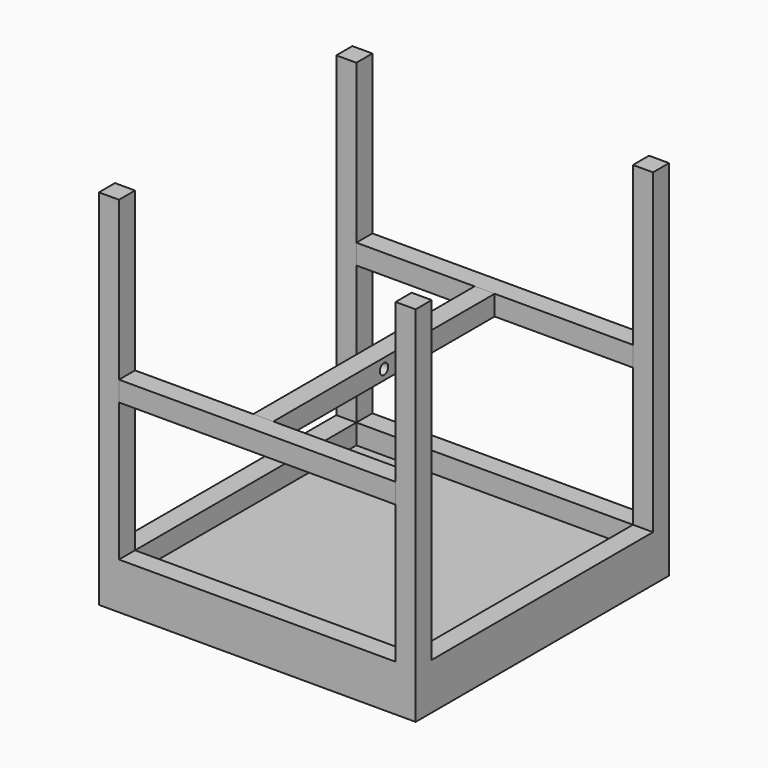
from build123d import *

# Parameters (mm, degrees)
F0_W      = 300
F0_H      = 300
F0_W_2    = 262
F0_H_2    = 262
F1_DEPTH  = 19
F2_W      = 300
F2_H      = 300
F2_W_2    = 262
F2_H_2    = 262
F3_DEPTH  = 25
F4_W      = 19
F4_H      = 19
F5_DEPTH  = 300
F6_W      = 262
F6_H      = 19
F7_DEPTH  = 19
F8_W      = 262
F8_H      = 19
F9_DEPTH  = 19
F10_W     = 19
F10_H     = 19
F11_DEPTH = 262
F12_R     = 5
F13_DEPTH = 25


with BuildPart() as f1:
    # F0 (on Top) → F1 (new body)
    with BuildSketch(Plane.XY):
        Rectangle(F0_W, F0_H)
        Rectangle(F0_W_2, F0_H_2, mode=Mode.SUBTRACT)
    extrude(amount=F1_DEPTH)

    # F2 (on face) → F3 (join)
    with BuildSketch(Plane(origin=(0, 0, 0), x_dir=(1, 0, 0), z_dir=(0, 0, -1))):
        Rectangle(F2_W, F2_H)
        Rectangle(F2_W_2, F2_H_2, mode=Mode.SUBTRACT)
        Rectangle(F2_W_2, F2_H_2)
    extrude(amount=F3_DEPTH)

    # F4 (on face) → F5 (join)
    with BuildSketch(Plane.XY.offset(19)):
        with Locations((140.5, 140.5)):
            Rectangle(F4_W, F4_H)
        with Locations((-140.5, 140.5)):
            Rectangle(F4_W, F4_H)
        with Locations((140.5, -140.5)):
            Rectangle(F4_W, F4_H)
        with Locations((-140.5, -140.5)):
            Rectangle(F4_W, F4_H)
    extrude(amount=F5_DEPTH)


with BuildPart() as f7:
    # F6 (on face) → F7 (new body)
    with BuildSketch(Plane.XZ.offset(150)):
        with Locations((0, 159.5)):
            Rectangle(F6_W, F6_H)
    extrude(amount=-F7_DEPTH)


with BuildPart() as f9:
    # F8 (on face) → F9 (new body)
    with BuildSketch(Plane(origin=(0, 150, 0), x_dir=(-1, 0, 0), z_dir=(0, 1, 0))):
        with Locations((0, 159.5)):
            Rectangle(F8_W, F8_H)
    extrude(amount=-F9_DEPTH)


with BuildPart() as f11:
    # F10 (on face) → F11 (new body)
    with BuildSketch(Plane.XZ.offset(-131)):
        with Locations((-9.5, 159.5)):
            Rectangle(F10_W, F10_H)
    extrude(amount=F11_DEPTH)

    # F12 (on face) → F13 (cut)
    with BuildSketch(Plane(origin=(-19, 0, 0), x_dir=(0, -1, 0), z_dir=(-1, 0, 0))):
        with Locations((0, 159.5)):
            Circle(F12_R)
    extrude(amount=-F13_DEPTH, mode=Mode.SUBTRACT)


solid = Compound([f1.part, f7.part, f9.part, f11.part])
